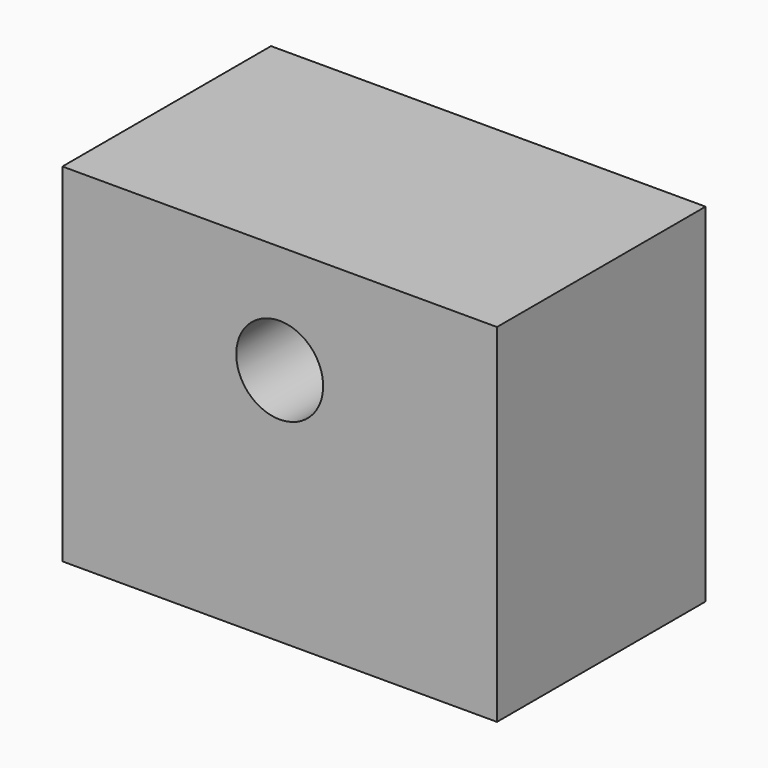
from build123d import *

# Parameters (mm, degrees)
F0_W     = 31.75
F0_H     = 19.05
F1_DEPTH = 25.4
F3_D     = 4.7625
F3_DEPTH = 12.7
F3_TIP   = 1.4307993491
F5_D     = 6.35


with BuildPart() as f1:
    # F0 (on Top) → F1 (new body)
    with BuildSketch(Plane.XY):
        with Locations((15.875, 9.525)):
            Rectangle(F0_W, F0_H)
    extrude(amount=F1_DEPTH)

    # F3
    with Locations(Plane(origin=(0, 0, 0), x_dir=(1, 0, 0), z_dir=(0, 0, -1))):
        with Locations((8.041003041, -9.6340968012), (23.916003041, -9.6340968012)):
            Hole(F3_D / 2, depth=F3_DEPTH)
            with Locations((0, 0, -(F3_DEPTH + F3_TIP / 2))):  # 118° drill point
                Cone(0, F3_D / 2, F3_TIP, mode=Mode.SUBTRACT)

    # F5 (through all)
    with Locations(Plane.XZ):
        with Locations((15.875, 17.4625)):
            Hole(F5_D / 2)


solid = f1.part
